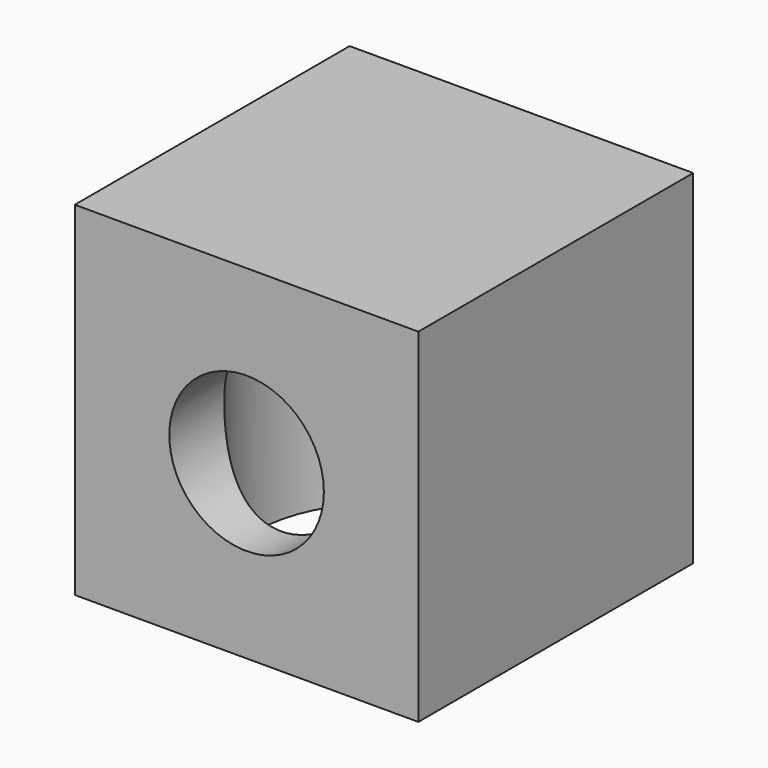
from build123d import *

# Parameters (mm, degrees)
F0_W     = 200
F0_H     = 200
F1_DEPTH = 200
F3_DEPTH = 150
F4_DEPTH = 25


with BuildPart() as f1:
    # F0 (on Front) → F1 (new body)
    with BuildSketch(Plane.XZ):
        with Locations((100, 100)):
            Rectangle(F0_W, F0_H)
        with BuildLine():
            ThreePointArc((100, 145), (131.8198051534, 131.8198051534), (145, 100))
            ThreePointArc((145, 100), (68.1801948466, 68.1801948466), (100, 145))
        make_face(mode=Mode.SUBTRACT)
    extrude(amount=F1_DEPTH)

    # F2 (on Top) → F3 (cut)
    with BuildSketch(Plane.XY):
        with BuildLine():
            ThreePointArc((100, -175), (153.033008589, -153.033008589), (175, -100))
            ThreePointArc((175, -100), (46.966991411, -46.966991411), (100, -175))
        make_face()
    extrude(amount=F3_DEPTH, mode=Mode.SUBTRACT)

    # F0 (on Front) → F4 (join)
    with BuildSketch(Plane.XZ):
        with BuildLine():
            ThreePointArc((100, 145), (68.1801948466, 68.1801948466), (145, 100))
            ThreePointArc((145, 100), (131.8198051534, 131.8198051534), (100, 145))
        make_face()
    extrude(amount=F4_DEPTH)


solid = f1.part
